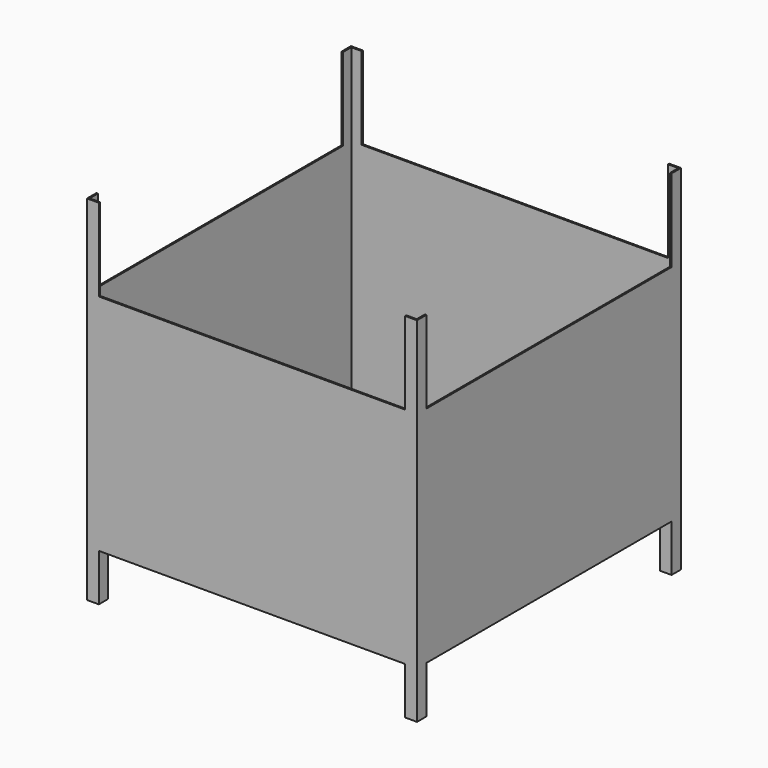
from build123d import *

# Parameters (mm, degrees)
F0_W     = 1120
F0_H     = 1120
F1_DEPTH = 1040
F2_T     = -5
F3_DEPTH = 160
F4_W     = 1040
F4_H     = 280
F4_H_2   = 160
F5_DEPTH = 1120.001
F6_W     = 1040
F6_H     = 280
F6_H_2   = 160
F7_DEPTH = 1120.001


with BuildPart() as f1:
    # F0 (on Top) → F1 (new body)
    with BuildSketch(Plane.XY):
        Rectangle(F0_W, F0_H)
    extrude(amount=F1_DEPTH)

    # F2
    f2_openings = [f1.faces().sort_by_distance(p)[0] for p in [
        (0, 0, 1040),
    ]]
    offset(amount=F2_T, openings=f2_openings)

    # F0 (on Top) → F3 (join)
    with BuildSketch(Plane.XY):
        Rectangle(F0_W, F0_H)
    extrude(amount=-F3_DEPTH)

    # F4 (on face) → F5 (cut, through all)
    with BuildSketch(Plane.YZ.offset(560)):
        with Locations((0, 900)):
            Rectangle(F4_W, F4_H)
        with Locations((0, -80)):
            Rectangle(F4_W, F4_H_2)
    extrude(amount=-F5_DEPTH, mode=Mode.SUBTRACT)

    # F6 (on face) → F7 (cut, through all)
    with BuildSketch(Plane.XZ.offset(560)):
        with Locations((0, 900)):
            Rectangle(F6_W, F6_H)
        with Locations((0, -80)):
            Rectangle(F6_W, F6_H_2)
    extrude(amount=-F7_DEPTH, mode=Mode.SUBTRACT)


solid = f1.part
